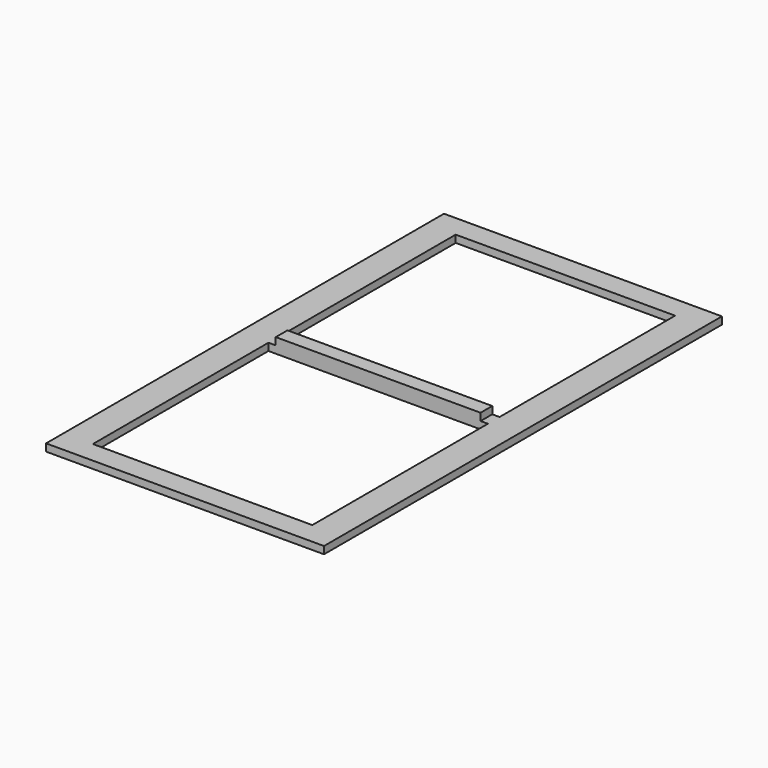
from build123d import *

# Parameters (mm, degrees)
F0_W     = 24.13
F0_H     = 43.18
F1_DEPTH = 0.635
F0_W_2   = 17.78
F0_H_2   = 1.27
F2_DEPTH = 1.27


with BuildPart() as f1:
    # F0 (on Top) → F1 (new body)
    with BuildSketch(Plane.XY):
        Rectangle(F0_W, F0_H)
        Polygon((8.89, -0.635), (9.525, -0.635), (9.525, -19.685), (-9.525, -19.685), (-9.525, -0.635), (-8.89, -0.635), (-8.89, 0.635), (-9.525, 0.635), (-9.525, 19.685), (9.525, 19.685), (9.525, 0.635), (8.89, 0.635), align=None, mode=Mode.SUBTRACT)
    extrude(amount=F1_DEPTH)

    # F0 (on Top) → F2 (join)
    with BuildSketch(Plane.XY):
        Rectangle(F0_W_2, F0_H_2)
    extrude(amount=F2_DEPTH)


solid = f1.part
